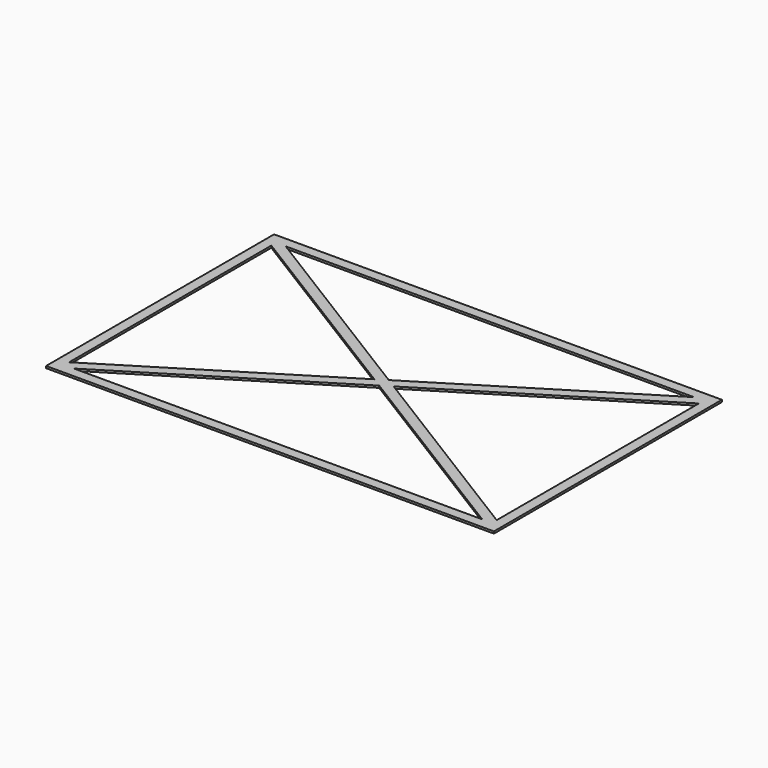
from build123d import *

# Parameters (mm, degrees)
F0_W     = 220
F0_H     = 140
F1_DEPTH = 1


with BuildPart() as f1:
    # F0 (on Top) → F1 (new body)
    with BuildSketch(Plane.XY):
        Rectangle(F0_W, F0_H)
        Polygon((0, -2.940259), (100.25035, -65), (-100.25035, -65), align=None, mode=Mode.SUBTRACT)
        Polygon((-4.74965, 0), (-105, -62.059741), (-105, 62.059741), align=None, mode=Mode.SUBTRACT)
        Polygon((105, 62.059741), (105, -62.059741), (4.74965, 0), align=None, mode=Mode.SUBTRACT)
        Polygon((-100.25035, 65), (100.25035, 65), (0, 2.940259), align=None, mode=Mode.SUBTRACT)
    extrude(amount=F1_DEPTH)


solid = f1.part
